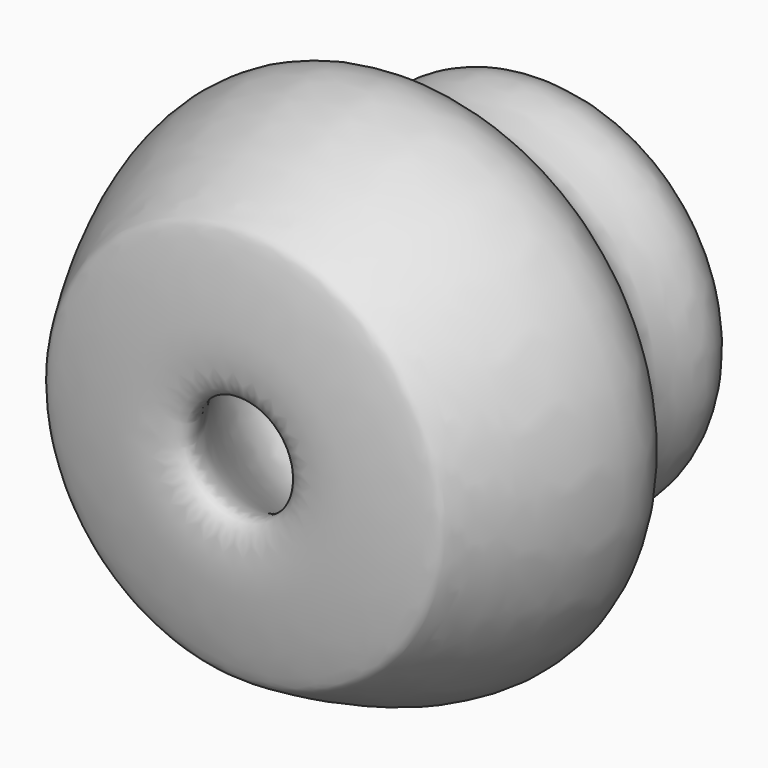
from build123d import *


with BuildPart() as f1:
    # F0 (on Top) → F1 (revolve)
    with BuildSketch(Plane.XY):
        with BuildLine():
            add(Edge.make_bspline(
                [(-25.8821621537, 43.6315089464), (-32.5661506652, 43.1132380048), (-51.4809517701, 31.3702759365), (-33.2078093734, 4.9391943219), (-77.5217526316, -9.6113040088), (-47.3723076474, -60.2592444925), (-45.9891893271, -62.8584463455), (14.7032848244, -73.5985271906), (-50.3904146259, -16.1012288885), (-2.9723198957, 4.0551902446), (-12.2445683137, 36.9061004716), (-20.6179232035, 44.0396936811), (-25.8821621537, 43.6315089464)],
                knots=[0, 0, 0, 0, 0.0916648682, 0.1810913807, 0.2884165383, 0.419343405, 0.4676046138, 0.5796606323, 0.7126326889, 0.8258597762, 0.9278057153, 1, 1, 1, 1], degree=3))
        make_face()
    revolve(axis=Axis((4.1918540373, -4.375776276, 0), (0, 1, 0)))


solid = f1.part
